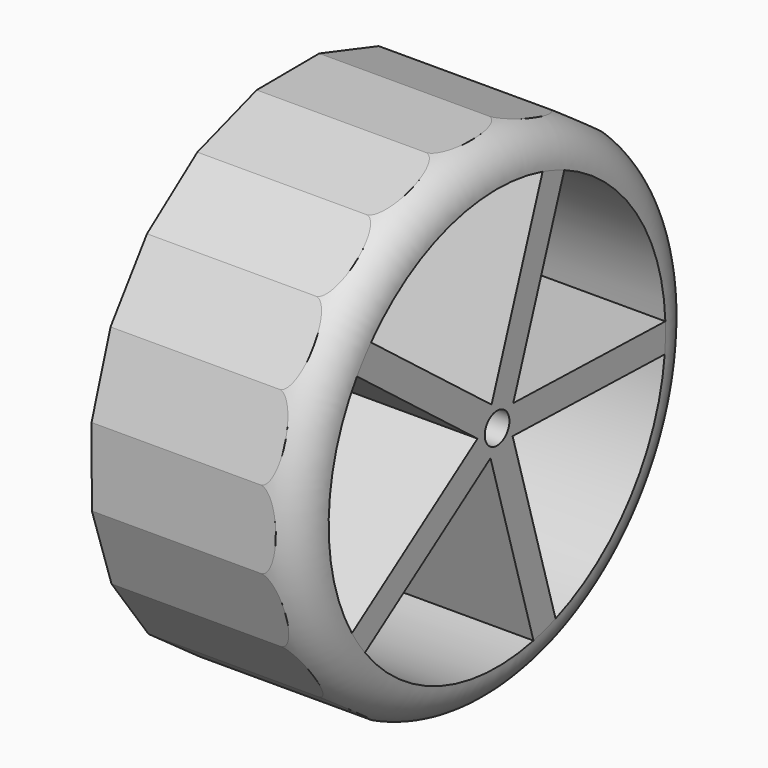
from build123d import *

# Parameters (mm, degrees)
F0_R     = 32.385
F1_DEPTH = 13.49375
F2_R     = 5.08
F3_R     = 2
F4_DEPTH = 26.9875
F6_DEPTH = 25.4


with BuildPart() as f1:
    # F0 (on Right) → F1 (new body, symmetric)
    with BuildSketch(Plane.YZ):
        Circle(F0_R)
    extrude(amount=F1_DEPTH, both=True)

    # F2
    f2_edges = [f1.edges().sort_by_distance(p)[0] for p in [
        (13.49375, -32.385, 0),
    ]]
    fillet(f2_edges, radius=F2_R)

    # F3 (on face) → F4 (cut, through all)
    with BuildSketch(Plane.YZ.offset(13.49375)):
        with BuildLine():
            Line((27.1784206229, -2.6261145147), (2.5155191615, -1.9372114877))
            Line((2.5155191615, -1.9372114877), (9.4815891308, -25.6059073761))
            ThreePointArc((9.4815891308, -25.6059073761), (21.6334647889, -16.6600187943), (27.1784206229, -2.6261145147))
        make_face()
        with BuildLine():
            Line((10.8961771745, 25.0367000218), (2.6197357794, 1.793769619))
            Line((2.6197357794, 1.793769619), (27.2826372408, 1.104866592))
            ThreePointArc((27.2826372408, 1.104866592), (22.5297277029, 15.4264187235), (10.8961771745, 25.0367000218))
        make_face()
        with BuildLine():
            Line((-20.4442127816, 18.0996460943), (-0.8964334083, 3.0458220802))
            Line((-0.8964334083, 3.0458220802), (7.3800079868, 26.288752483))
            ThreePointArc((7.3800079868, 26.288752483), (-7.7093273113, 26.1940698901), (-20.4442127816, 18.0996460943))
        make_face()
        with BuildLine():
            Line((-23.5313955468, -13.8505035512), (-3.1737620944, 0.0886519503))
            Line((-3.1737620944, 0.0886519503), (-22.7215414677, 15.1424759643))
            ThreePointArc((-22.7215414677, 15.1424759643), (-27.2943540117, 0.7624067723), (-23.5313955468, -13.8505035512))
        make_face()
        with BuildLine():
            Line((5.901010531, -26.6597280502), (-1.0650594382, -2.9910321618))
            Line((-1.0650594382, -2.9910321618), (-21.4226928906, -16.9301876633))
            ThreePointArc((-21.4226928906, -16.9301876633), (-9.1595111689, -25.7228765916), (5.901010531, -26.6597280502))
        make_face()
        Circle(F3_R)
    extrude(amount=-F4_DEPTH, mode=Mode.SUBTRACT)

    # F5 (on face) → F6 (cut)
    with BuildSketch(Plane(origin=(-13.49375, 0, 0), x_dir=(0, -1, 0), z_dir=(-1, 0, 0))):
        with BuildLine():
            ThreePointArc((5.2398436241, 31.9582894379), (0.1759545423, 32.3845219974), (-4.8922671244, 32.0133401473))
            Line((-4.8922671244, 32.0133401473), (5.2398436241, 31.9582894379))
        make_face()
        with BuildLine():
            ThreePointArc((-4.8922671244, 32.0133401473), (-9.8400249379, 30.8538836165), (-14.5454886803, 28.934702073))
            Line((-14.5454886803, 28.934702073), (-4.8922671244, 32.0133401473))
        make_face()
        with BuildLine():
            ThreePointArc((-14.5454886803, 28.934702073), (-18.8927942177, 26.3030521356), (-22.7748964598, 23.0237337599))
            Line((-22.7748964598, 23.0237337599), (-14.5454886803, 28.934702073))
        make_face()
        with BuildLine():
            ThreePointArc((-22.7748964598, 23.0237337599), (-26.0962051656, 19.1774946475), (-28.7749386918, 14.8590419705))
            Line((-28.7749386918, 14.8590419705), (-22.7748964598, 23.0237337599))
        make_face()
        with BuildLine():
            Line((-31.9582894379, 5.2398436241), (-28.7749386918, 14.8590419705))
            ThreePointArc((-28.7749386918, 14.8590419705), (-30.7451377289, 10.1747103659), (-31.9582894379, 5.2398436241))
        make_face()
        with BuildLine():
            Line((-32.0133401473, -4.8922671244), (-31.9582894379, 5.2398436241))
            ThreePointArc((-31.9582894379, 5.2398436241), (-32.3845219974, 0.1759545423), (-32.0133401473, -4.8922671244))
        make_face()
        with BuildLine():
            Line((-28.934702073, -14.5454886803), (-32.0133401473, -4.8922671244))
            ThreePointArc((-32.0133401473, -4.8922671244), (-30.8538836165, -9.8400249379), (-28.934702073, -14.5454886803))
        make_face()
        with BuildLine():
            Line((-23.0237337599, -22.7748964598), (-28.934702073, -14.5454886803))
            ThreePointArc((-28.934702073, -14.5454886803), (-26.3030521356, -18.8927942177), (-23.0237337599, -22.7748964598))
        make_face()
        with BuildLine():
            Line((-5.2398436241, -31.9582894379), (-14.8590419705, -28.7749386918))
            ThreePointArc((-14.8590419705, -28.7749386918), (-10.1747103659, -30.7451377289), (-5.2398436241, -31.9582894379))
        make_face()
        with BuildLine():
            Line((-14.8590419705, -28.7749386918), (-23.0237337599, -22.7748964598))
            ThreePointArc((-23.0237337599, -22.7748964598), (-19.1774946475, -26.0962051656), (-14.8590419705, -28.7749386918))
        make_face()
        with BuildLine():
            Line((4.8922671244, -32.0133401473), (-5.2398436241, -31.9582894379))
            ThreePointArc((-5.2398436241, -31.9582894379), (-0.1759545423, -32.3845219974), (4.8922671244, -32.0133401473))
        make_face()
        with BuildLine():
            Line((14.5454886803, -28.934702073), (4.8922671244, -32.0133401473))
            ThreePointArc((4.8922671244, -32.0133401473), (9.8400249379, -30.8538836165), (14.5454886803, -28.934702073))
        make_face()
        with BuildLine():
            Line((22.7748964598, -23.0237337599), (14.5454886803, -28.934702073))
            ThreePointArc((14.5454886803, -28.934702073), (18.8927942177, -26.3030521356), (22.7748964598, -23.0237337599))
        make_face()
        with BuildLine():
            Line((28.7749386918, -14.8590419705), (22.7748964598, -23.0237337599))
            ThreePointArc((22.7748964598, -23.0237337599), (26.0962051656, -19.1774946475), (28.7749386918, -14.8590419705))
        make_face()
        with BuildLine():
            ThreePointArc((28.7749386918, -14.8590419705), (30.7451377289, -10.1747103659), (31.9582894379, -5.2398436241))
            Line((31.9582894379, -5.2398436241), (28.7749386918, -14.8590419705))
        make_face()
        with BuildLine():
            ThreePointArc((32.385, 0), (32.2919513631, 2.453182049), (32.0133401473, 4.8922671244))
            Line((32.0133401473, 4.8922671244), (31.9582894379, -5.2398436241))
            ThreePointArc((31.9582894379, -5.2398436241), (32.2781460778, -2.6285948294), (32.385, 0))
        make_face()
        with BuildLine():
            ThreePointArc((32.0133401473, 4.8922671244), (30.8538836165, 9.8400249379), (28.934702073, 14.5454886803))
            Line((28.934702073, 14.5454886803), (32.0133401473, 4.8922671244))
        make_face()
        with BuildLine():
            ThreePointArc((28.934702073, 14.5454886803), (26.3030521356, 18.8927942177), (23.0237337599, 22.7748964598))
            Line((23.0237337599, 22.7748964598), (28.934702073, 14.5454886803))
        make_face()
        with BuildLine():
            ThreePointArc((14.8590419705, 28.7749386918), (10.1747103659, 30.7451377289), (5.2398436241, 31.9582894379))
            Line((5.2398436241, 31.9582894379), (14.8590419705, 28.7749386918))
        make_face()
        with BuildLine():
            ThreePointArc((23.0237337599, 22.7748964598), (19.1774946475, 26.0962051656), (14.8590419705, 28.7749386918))
            Line((14.8590419705, 28.7749386918), (23.0237337599, 22.7748964598))
        make_face()
    extrude(amount=-F6_DEPTH, mode=Mode.SUBTRACT)


solid = f1.part
